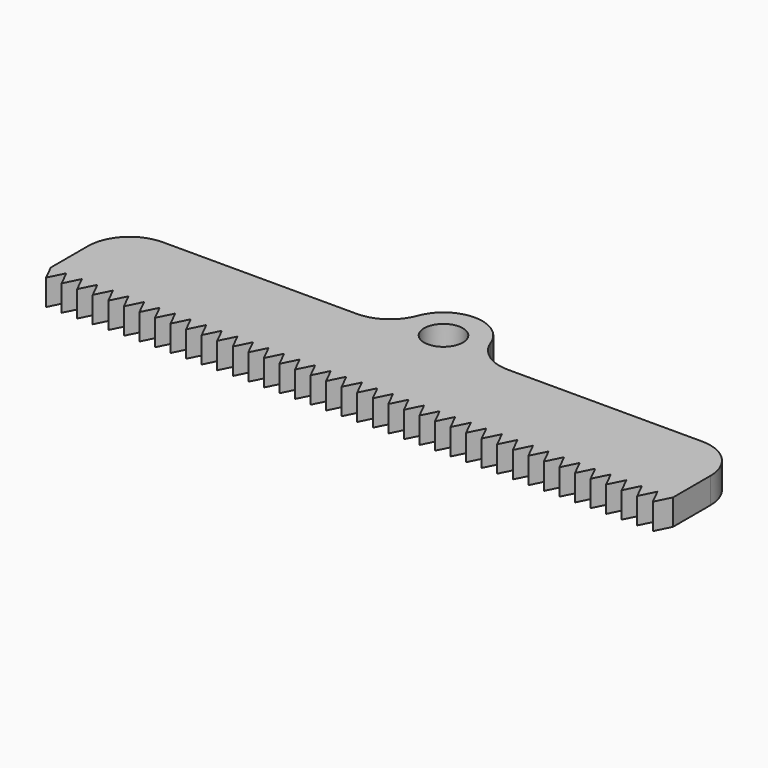
from build123d import *

# Parameters (mm, degrees)
F0_R     = 2.3749
F1_DEPTH = 3.175
F3_DEPTH = 25.4


with BuildPart() as f1:
    # F0 (on Top) → F1 (new body)
    with BuildSketch(Plane.XY):
        with BuildLine():
            Line((-38.1, -9.525), (38.1, -9.525))
            Line((38.1, -9.525), (38.1, -1.905))
            ThreePointArc((38.1, -1.905), (36.612102, 1.687102), (33.02, 3.175))
            Line((33.02, 3.175), (9.243306, 3.175))
            ThreePointArc((9.243306, 3.175), (6.333003, 4.091283), (4.472567, 6.509591))
            ThreePointArc((4.472567, 6.509591), (0, 9.635769), (-4.472567, 6.509591))
            ThreePointArc((-4.472567, 6.509591), (-6.333003, 4.091283), (-9.243306, 3.175))
            Line((-9.243306, 3.175), (-33.02, 3.175))
            ThreePointArc((-33.02, 3.175), (-36.612102, 1.687102), (-38.1, -1.905))
            Line((-38.1, -1.905), (-38.1, -9.525))
        make_face()
        with Locations((0, 4.873269)):
            Circle(F0_R, mode=Mode.SUBTRACT)
    extrude(amount=F1_DEPTH)

    # F2 (on face) → F3 (cut)
    with BuildSketch(Plane.XY.offset(3.175)):
        Polygon((-38.1, -7.62), (-38.1, -14.148636), (38.1, -14.148636), (38.1, -7.62), (37.1475, -9.525), (36.195, -7.62), (35.2425, -9.525), (34.29, -7.62), (33.3375, -9.525), (32.385, -7.62), (31.4325, -9.525), (30.48, -7.62), (29.5275, -9.525), (28.575, -7.62), (27.6225, -9.525), (26.67, -7.62), (25.7175, -9.525), (24.765, -7.62), (23.8125, -9.525), (22.86, -7.62), (21.9075, -9.525), (20.955, -7.62), (20.0025, -9.525), (19.05, -7.62), (18.0975, -9.525), (17.145, -7.62), (16.1925, -9.525), (15.24, -7.62), (14.2875, -9.525), (13.335, -7.62), (12.3825, -9.525), (11.43, -7.62), (10.4775, -9.525), (9.525, -7.62), (8.5725, -9.525), (7.62, -7.62), (6.6675, -9.525), (5.715, -7.62), (4.7625, -9.525), (3.81, -7.62), (2.8575, -9.525), (1.905, -7.62), (0.9525, -9.525), (0, -7.62), (-0.9525, -9.525), (-1.905, -7.62), (-2.8575, -9.525), (-3.81, -7.62), (-4.7625, -9.525), (-5.715, -7.62), (-6.6675, -9.525), (-7.62, -7.62), (-8.5725, -9.525), (-9.525, -7.62), (-10.4775, -9.525), (-11.43, -7.62), (-12.3825, -9.525), (-13.335, -7.62), (-14.2875, -9.525), (-15.24, -7.62), (-16.1925, -9.525), (-17.145, -7.62), (-18.0975, -9.525), (-19.05, -7.62), (-20.0025, -9.525), (-20.955, -7.62), (-21.9075, -9.525), (-22.86, -7.62), (-23.8125, -9.525), (-24.765, -7.62), (-25.7175, -9.525), (-26.67, -7.62), (-27.6225, -9.525), (-28.575, -7.62), (-29.5275, -9.525), (-30.48, -7.62), (-31.4325, -9.525), (-32.385, -7.62), (-33.3375, -9.525), (-34.29, -7.62), (-35.2425, -9.525), (-36.195, -7.62), (-37.1475, -9.525), align=None)
    extrude(amount=-F3_DEPTH, mode=Mode.SUBTRACT)


solid = f1.part
